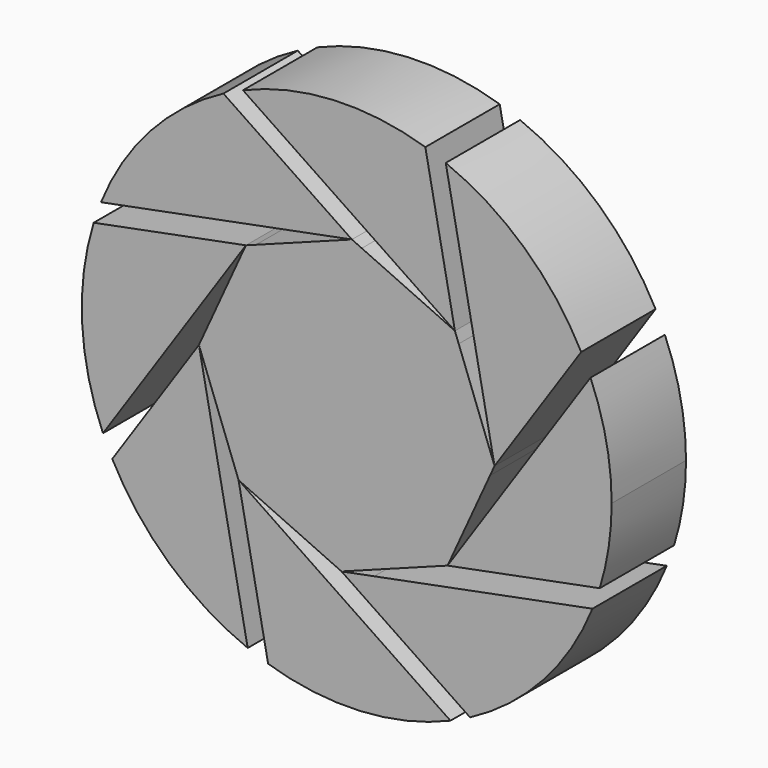
from build123d import *

# Parameters (mm, degrees)
F1_DEPTH = 12.7
F2_DEPTH = 12.7


with BuildPart() as f1:
    # F0 (on Front) → F1 (new body, symmetric)
    with BuildSketch(Plane.XZ):
        with BuildLine():
            Line((-7.5121501428, 38.6466622133), (1.42265525, 40.3834124477))
            Line((1.42265525, 40.3834124477), (-33.6944872903, 64.0702241782))
            ThreePointArc((-33.6944872903, 64.0702241782), (-53.7087007187, 48.5354258981), (-67.1440035139, 27.0554041206))
            Line((-67.1440035139, 27.0554041206), (-7.5121501428, 38.6466622133))
        make_face()
    extrude(amount=F1_DEPTH, both=True)


with BuildPart() as f1b:
    # F0 (on Front) → F1, piece 2 (new body, symmetric)
    with BuildSketch(Plane.XZ):
        with BuildLine():
            Line((22.0154242614, 32.6392094664), (29.5613539637, 27.5494156147))
            Line((29.5613539637, 27.5494156147), (21.478889537, 69.1300904401))
            ThreePointArc((21.478889537, 69.1300904401), (-3.6580577065, 72.2975152672), (-28.3469204792, 66.6090399221))
            Line((-28.3469204792, 66.6090399221), (22.0154242614, 32.6392094664))
        make_face()
    extrude(amount=F1_DEPTH, both=True)


with BuildPart() as f1c:
    # F0 (on Front) → F1, piece 3 (new body, symmetric)
    with BuildSketch(Plane.XZ):
        with BuildLine():
            Line((27.0554041206, 67.1440035139), (38.6466622299, 7.5121500575))
            Line((38.6466622299, 7.5121500575), (40.3834124477, -1.42265525))
            Line((40.3834124477, -1.42265525), (64.0702241782, 33.6944872903))
            ThreePointArc((64.0702241782, 33.6944872903), (48.5354258981, 53.7087007187), (27.0554041206, 67.1440035139))
        make_face()
    extrude(amount=F1_DEPTH, both=True)


with BuildPart() as f1d:
    # F0 (on Front) → F1, piece 4 (new body, symmetric)
    with BuildSketch(Plane.XZ):
        with BuildLine():
            Line((66.6090399221, 28.3469204792), (32.639209035, -22.0154249009))
            Line((32.639209035, -22.0154249009), (27.5494156147, -29.5613539637))
            Line((27.5494156147, -29.5613539637), (69.1300904401, -21.478889537))
            ThreePointArc((69.1300904401, -21.478889537), (71.5703826557, -10.862431888), (72.39, 0))
            ThreePointArc((72.39, 0), (70.9300377131, 14.4651944342), (66.6090399221, 28.3469204792))
        make_face()
    extrude(amount=F1_DEPTH, both=True)


with BuildPart() as f1e:
    # F0 (on Front) → F1, piece 5 (new body, symmetric)
    with BuildSketch(Plane.XZ):
        with BuildLine():
            Line((67.1440035139, -27.0554041206), (7.5121503146, -38.64666218))
            Line((7.5121503146, -38.64666218), (-1.42265525, -40.3834124477))
            Line((-1.42265525, -40.3834124477), (33.6944872903, -64.0702241782))
            ThreePointArc((33.6944872903, -64.0702241782), (53.7087007187, -48.5354258981), (67.1440035139, -27.0554041206))
        make_face()
    extrude(amount=F1_DEPTH, both=True)


with BuildPart() as f1f:
    # F0 (on Front) → F1, piece 6 (new body, symmetric)
    with BuildSketch(Plane.XZ):
        with BuildLine():
            Line((28.3469204792, -66.6090399221), (-22.0154245187, -32.6392092929))
            Line((-22.0154245187, -32.6392092929), (-29.5613539637, -27.5494156147))
            Line((-29.5613539637, -27.5494156147), (-21.478889537, -69.1300904401))
            ThreePointArc((-21.478889537, -69.1300904401), (3.6580577065, -72.2975152672), (28.3469204792, -66.6090399221))
        make_face()
    extrude(amount=F1_DEPTH, both=True)


with BuildPart() as f1g:
    # F0 (on Front) → F1, piece 7 (new body, symmetric)
    with BuildSketch(Plane.XZ):
        with BuildLine():
            Line((-27.0554041206, -67.1440035139), (-38.6466621547, -7.5121504446))
            Line((-38.6466621547, -7.5121504446), (-40.3834124477, 1.42265525))
            Line((-40.3834124477, 1.42265525), (-64.0702241782, -33.6944872903))
            ThreePointArc((-64.0702241782, -33.6944872903), (-48.5354258981, -53.7087007187), (-27.0554041206, -67.1440035139))
        make_face()
    extrude(amount=F1_DEPTH, both=True)


with BuildPart() as f1h:
    # F0 (on Front) → F1, piece 8 (new body, symmetric)
    with BuildSketch(Plane.XZ):
        with BuildLine():
            Line((-32.6392092281, 22.0154246147), (-27.5494156147, 29.5613539637))
            Line((-27.5494156147, 29.5613539637), (-69.1300904401, 21.478889537))
            ThreePointArc((-69.1300904401, 21.478889537), (-72.2975152672, -3.6580577065), (-66.6090399221, -28.3469204792))
            Line((-66.6090399221, -28.3469204792), (-32.6392092281, 22.0154246147))
        make_face()
    extrude(amount=F1_DEPTH, both=True)


with BuildPart() as f2:
    # F0 (on Front) → F2 (new body, symmetric)
    with BuildSketch(Plane.XZ):
        with BuildLine():
            ThreePointArc((-1.3526049363, 39.3467579336), (1.3860941963, 39.34559242), (4.1180859838, 39.1540325871))
            Line((4.1180859838, 39.1540325871), (1.42265525, 40.3834124477))
            Line((1.42265525, 40.3834124477), (-1.3526049363, 39.3467579336))
        make_face()
        with BuildLine():
            ThreePointArc((-28.7787954753, 26.8659232299), (-26.8414186044, 28.8016518155), (-24.7741554285, 30.5980084778))
            Line((-24.7741554285, 30.5980084778), (-27.5494156147, 29.5613539637))
            Line((-27.5494156147, 29.5613539637), (-28.7787954753, 26.8659232299))
        make_face()
        with BuildLine():
            ThreePointArc((-39.3467579336, -1.3526049363), (-39.34559242, 1.3860941963), (-39.1540325871, 4.1180859838))
            Line((-39.1540325871, 4.1180859838), (-40.3834124477, 1.42265525))
            Line((-40.3834124477, 1.42265525), (-39.3467579336, -1.3526049363))
        make_face()
        with BuildLine():
            ThreePointArc((26.8659232299, 28.7787954753), (28.8016518155, 26.8414186044), (30.5980084778, 24.7741554285))
            Line((30.5980084778, 24.7741554285), (29.5613539637, 27.5494156147))
            Line((29.5613539637, 27.5494156147), (26.8659232299, 28.7787954753))
        make_face()
        with BuildLine():
            ThreePointArc((39.3467579336, 1.3526049363), (39.3641890546, 0.676402304), (39.37, 0))
            ThreePointArc((39.37, 0), (39.3159710738, -2.0618725769), (39.1540325871, -4.1180859838))
            Line((39.1540325871, -4.1180859838), (40.3834124477, -1.42265525))
            Line((40.3834124477, -1.42265525), (39.3467579336, 1.3526049363))
        make_face()
        with BuildLine():
            Line((27.5494156147, -29.5613539637), (28.7787954753, -26.8659232299))
            ThreePointArc((28.7787954753, -26.8659232299), (26.8414186044, -28.8016518155), (24.7741554285, -30.5980084778))
            Line((24.7741554285, -30.5980084778), (27.5494156147, -29.5613539637))
        make_face()
        with BuildLine():
            Line((-1.42265525, -40.3834124477), (1.3526049363, -39.3467579336))
            ThreePointArc((1.3526049363, -39.3467579336), (-1.3860941963, -39.34559242), (-4.1180859838, -39.1540325871))
            Line((-4.1180859838, -39.1540325871), (-1.42265525, -40.3834124477))
        make_face()
        with BuildLine():
            ThreePointArc((39.1540325871, -4.1180859838), (39.3159710738, -2.0618725769), (39.37, 0))
            ThreePointArc((39.37, 0), (39.3641890546, 0.676402304), (39.3467579336, 1.3526049363))
            Line((39.3467579336, 1.3526049363), (30.5980084778, 24.7741554285))
            ThreePointArc((30.5980084778, 24.7741554285), (28.8016518155, 26.8414186044), (26.8659232299, 28.7787954753))
            Line((26.8659232299, 28.7787954753), (4.1180859838, 39.1540325871))
            ThreePointArc((4.1180859838, 39.1540325871), (1.3860941963, 39.34559242), (-1.3526049363, 39.3467579336))
            Line((-1.3526049363, 39.3467579336), (-24.7741554285, 30.5980084778))
            ThreePointArc((-24.7741554285, 30.5980084778), (-26.8414186044, 28.8016518155), (-28.7787954753, 26.8659232299))
            Line((-28.7787954753, 26.8659232299), (-39.1540325871, 4.1180859838))
            ThreePointArc((-39.1540325871, 4.1180859838), (-39.34559242, 1.3860941963), (-39.3467579336, -1.3526049363))
            Line((-39.3467579336, -1.3526049363), (-30.5980084778, -24.7741554285))
            ThreePointArc((-30.5980084778, -24.7741554285), (-28.8016518155, -26.8414186044), (-26.8659232299, -28.7787954753))
            Line((-26.8659232299, -28.7787954753), (-4.1180859838, -39.1540325871))
            ThreePointArc((-4.1180859838, -39.1540325871), (-1.3860941963, -39.34559242), (1.3526049363, -39.3467579336))
            Line((1.3526049363, -39.3467579336), (24.7741554285, -30.5980084778))
            ThreePointArc((24.7741554285, -30.5980084778), (26.8414186044, -28.8016518155), (28.7787954753, -26.8659232299))
            Line((28.7787954753, -26.8659232299), (39.1540325871, -4.1180859838))
        make_face()
        with BuildLine():
            Line((-29.5613539637, -27.5494156147), (-26.8659232299, -28.7787954753))
            ThreePointArc((-26.8659232299, -28.7787954753), (-28.8016518155, -26.8414186044), (-30.5980084778, -24.7741554285))
            Line((-30.5980084778, -24.7741554285), (-29.5613539637, -27.5494156147))
        make_face()
    extrude(amount=F2_DEPTH, both=True)


solid = Compound([f1.part, f1b.part, f1c.part, f1d.part, f1e.part, f1f.part, f1g.part, f1h.part, f2.part])
